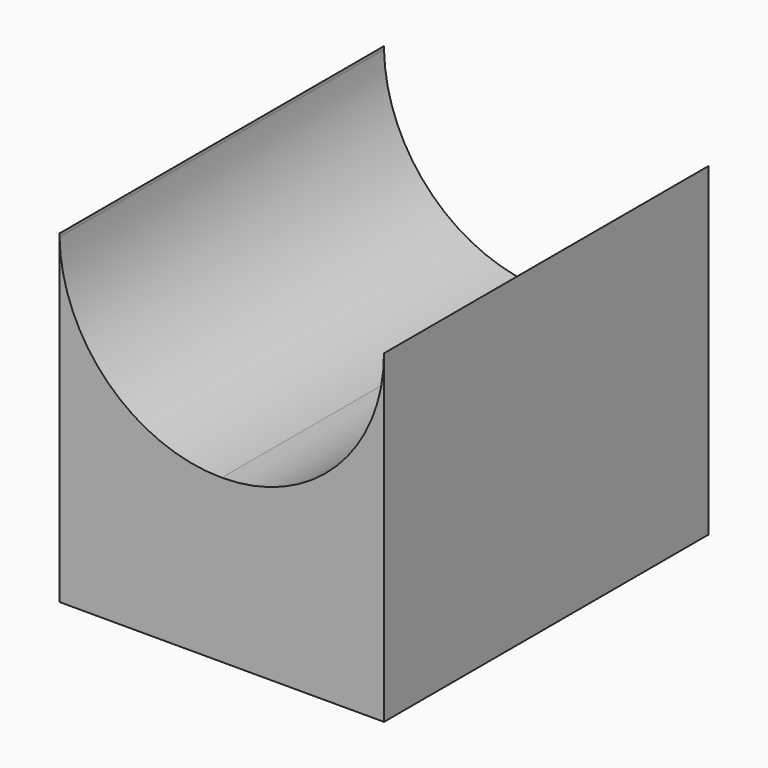
from build123d import *

# Parameters (mm, degrees)
F1_DEPTH = 25


with BuildPart() as f1:
    # F0 (on Front) → F1 (new body)
    with BuildSketch(Plane.XZ):
        with BuildLine():
            Line((-9.9980868741, -0.1955987176), (-10, 0))
            ThreePointArc((-10, 0), (-9.9995217071, -0.0978040367), (-9.9980868741, -0.1955987176))
        make_face()
    extrude(amount=F1_DEPTH)


with BuildPart() as f1b:
    # F0 (on Front) → F1, piece 2 (new body)
    with BuildSketch(Plane.XZ):
        with BuildLine():
            ThreePointArc((0, -10), (-7.0015717101, -7.1398875053), (-9.9980868741, -0.1955987176))
            Line((-9.9980868741, -0.1955987176), (-9.9980868741, -20))
            Line((-9.9980868741, -20), (0, -20))
            Line((0, -20), (0, -10))
        make_face()
        with BuildLine():
            ThreePointArc((10, 0), (7.0710678119, -7.0710678119), (0, -10))
            Line((0, -10), (0, -20))
            Line((0, -20), (10, -20))
            Line((10, -20), (10, 0))
        make_face()
    extrude(amount=F1_DEPTH)


solid = Compound([f1.part, f1b.part])
